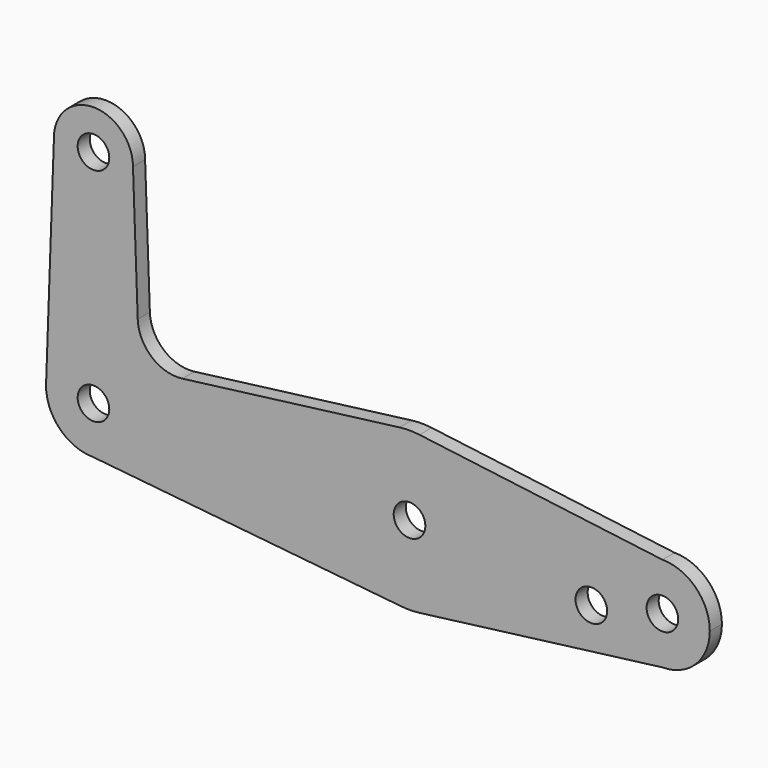
from build123d import *

# Parameters (mm, degrees)
F0_R     = 3.175
F1_DEPTH = 3.048


with BuildPart() as f1:
    # F0 (on Front) → F1 (new body)
    with BuildSketch(Plane.XZ):
        with BuildLine():
            ThreePointArc((-7.9375, 44.45), (0, 36.5125), (7.9375, 44.45))
            ThreePointArc((7.9375, 44.45), (0, 52.3875), (-7.9375, 44.45))
        make_face()
        with Locations((0, 44.45)):
            Circle(F0_R, mode=Mode.SUBTRACT)
        with BuildLine():
            Line((8.89358, 17.782553), (7.9375, 44.45))
            ThreePointArc((7.9375, 44.45), (0, 36.5125), (-7.9375, 44.45))
            Line((-7.9375, 44.45), (-9.518884, 0.341271))
            ThreePointArc((-9.518884, 0.341271), (0.170663, 9.523471), (9.525, 0))
            ThreePointArc((9.525, 0), (6.735192, -6.735192), (0, -9.525))
            Line((0, -9.525), (61.90038, -15.794203))
            ThreePointArc((61.90038, -15.794203), (47.626332, -0.205667), (61.491711, 15.747457))
            Line((61.491711, 15.747457), (17.844427, 10.181074))
            ThreePointArc((17.844427, 10.181074), (11.692391, 12.007579), (8.89358, 17.782553))
        make_face()
        with BuildLine():
            ThreePointArc((9.525, 0), (0.170663, 9.523471), (-9.518884, 0.341271))
            ThreePointArc((-9.518884, 0.341271), (-6.854788, -6.613434), (0, -9.525))
            ThreePointArc((0, -9.525), (6.735192, -6.735192), (9.525, 0))
        make_face()
        Circle(F0_R, mode=Mode.SUBTRACT)
        with BuildLine():
            ThreePointArc((65.508289, 15.747457), (63.5, 15.875), (61.491711, 15.747457))
            ThreePointArc((61.491711, 15.747457), (47.626332, -0.205667), (61.90038, -15.794203))
            ThreePointArc((61.90038, -15.794203), (63.705667, -15.873668), (65.508289, -15.747457))
            ThreePointArc((65.508289, -15.747457), (75.414219, -10.491283), (79.375, 0))
            ThreePointArc((79.375, 0), (75.414219, 10.491283), (65.508289, 15.747457))
        make_face()
        with Locations((63.5, 0)):
            Circle(F0_R, mode=Mode.SUBTRACT)
        with BuildLine():
            Line((114.3, 9.525), (65.508289, 15.747457))
            ThreePointArc((65.508289, 15.747457), (75.414219, 10.491283), (79.375, 0))
            ThreePointArc((79.375, 0), (75.414219, -10.491283), (65.508289, -15.747457))
            Line((65.508289, -15.747457), (114.3, -9.525))
            ThreePointArc((114.3, -9.525), (104.775, 0), (114.3, 9.525))
        make_face()
        with Locations((100.0252, -3.175)):
            Circle(F0_R, mode=Mode.SUBTRACT)
        with BuildLine():
            ThreePointArc((123.825, 0), (121.035192, 6.735192), (114.3, 9.525))
            ThreePointArc((114.3, 9.525), (104.775, 0), (114.3, -9.525))
            ThreePointArc((114.3, -9.525), (121.035192, -6.735192), (123.825, 0))
        make_face()
        with Locations((114.3, 0)):
            Circle(F0_R, mode=Mode.SUBTRACT)
    extrude(amount=F1_DEPTH)


solid = f1.part
